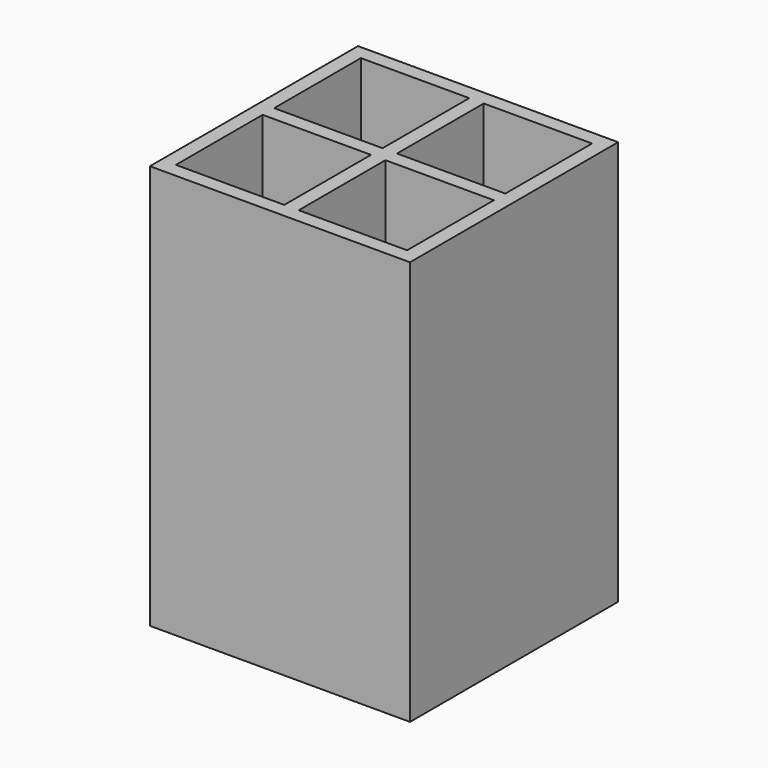
from build123d import *

# Parameters (mm, degrees)
F0_W     = 57.15
F0_H     = 88.9
F1_DEPTH = 57.15
F2_W     = 23.8125
F2_H     = 23.8125
F3_DEPTH = 85.725


with BuildPart() as f1:
    # F0 (on Front) → F1 (new body)
    with BuildSketch(Plane.XZ):
        Rectangle(F0_W, F0_H)
    extrude(amount=F1_DEPTH)

    # F2 (on face) → F3 (cut)
    with BuildSketch(Plane.XY.offset(44.45)):
        with Locations((-13.49375, -15.08125)):
            Rectangle(F2_W, F2_H)
        with Locations((13.49375, -15.08125)):
            Rectangle(F2_W, F2_H)
        with Locations((13.49375, -42.06875)):
            Rectangle(F2_W, F2_H)
        with Locations((-13.49375, -42.06875)):
            Rectangle(F2_W, F2_H)
    extrude(amount=-F3_DEPTH, mode=Mode.SUBTRACT)


solid = f1.part
